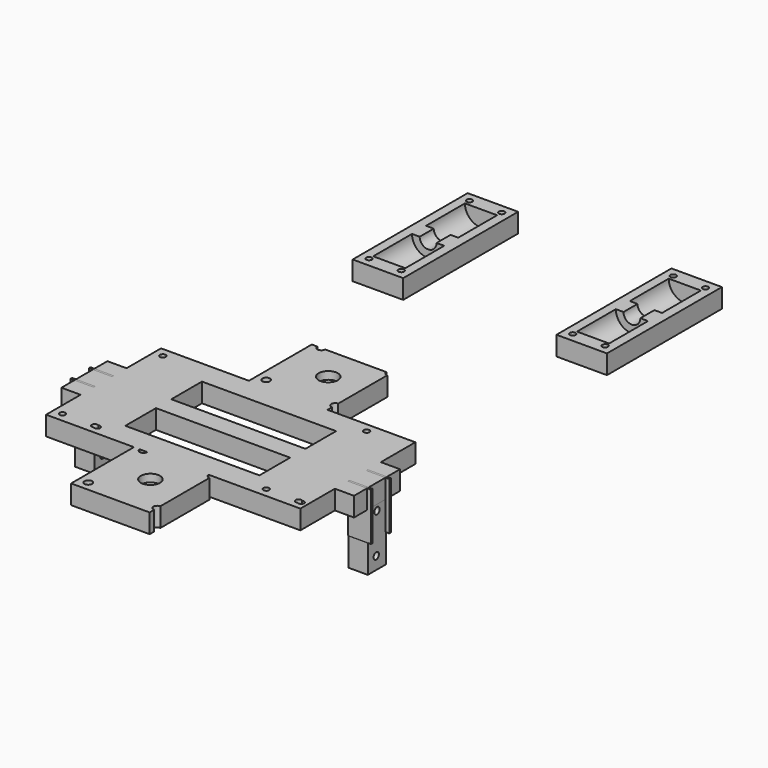
from build123d import *

# Parameters (mm, degrees)
CYLINDER013_R           = 1.5
CYLINDER013_DEPTH       = 10
CYLINDER012_R           = 1.5
CYLINDER012_DEPTH       = 10
CYLINDER011_R           = 1.5
CYLINDER011_DEPTH       = 10
CYLINDER010_R           = 1.5
CYLINDER010_DEPTH       = 10
CYLINDER009_R           = 8.4
CYLINDER009_DEPTH       = 25.35
CYLINDER009_ROLL_ANGLE  = 90
CYLINDER008_R           = 4.4
CYLINDER008_DEPTH       = 9.5
CYLINDER008_ROLL_ANGLE  = 90
CYLINDER007_R           = 8.4
CYLINDER007_DEPTH       = 25.35
CYLINDER007_ROLL_ANGLE  = 90
BOX010_W                = 26.35
BOX010_H                = 75
BOX010_DEPTH            = 10
CUT017_PLACEMENT_ANGLE  = 180
ARRAY001_X_COUNT        = 2
ARRAY001_X_PITCH        = 106.35
BOX012_W                = 36
BOX012_H                = 36
BOX012_DEPTH            = 6
CYLINDER018_R           = 5
CYLINDER018_DEPTH       = 10
CYLINDER017_R           = 2
CYLINDER017_DEPTH       = 10
CYLINDER016_R           = 2
CYLINDER016_DEPTH       = 10
CYLINDER014_R           = 2
CYLINDER014_DEPTH       = 10
CYLINDER015_R           = 2
CYLINDER015_DEPTH       = 10
BOX011_W                = 41
BOX011_H                = 41
BOX011_DEPTH            = 10
ARRAY002_Y_COUNT        = 2
ARRAY002_Y_PITCH        = 116
BOX007_W                = 10
BOX007_H                = 30
BOX007_DEPTH            = 10
BOX006_W                = 10
BOX006_H                = 30
BOX006_DEPTH            = 10
CYLINDER001_R           = 1.5
CYLINDER001_DEPTH       = 10
CYLINDER006_R           = 4.4
CYLINDER006_DEPTH       = 9.5
CYLINDER006_ROLL_ANGLE  = 90
CYLINDER005_R           = 8.4
CYLINDER005_DEPTH       = 25.35
CYLINDER005_ROLL_ANGLE  = 90
CYLINDER004_R           = 8.4
CYLINDER004_DEPTH       = 25.35
CYLINDER004_ROLL_ANGLE  = 90
CYLINDER003_R           = 1.5
CYLINDER003_DEPTH       = 10
CYLINDER002_R           = 1.5
CYLINDER002_DEPTH       = 10
CYLINDER_R              = 1.5
CYLINDER_DEPTH          = 10
BOX_W                   = 26.35
BOX_H                   = 75
BOX_DEPTH               = 10
ARRAY_X_COUNT           = 2
ARRAY_X_PITCH           = 106.35
BOX003_W                = 70
BOX003_H                = 20
BOX003_DEPTH            = 10
BOX002_W                = 70
BOX002_H                = 20
BOX002_DEPTH            = 10
BOX001_W                = 80
BOX001_H                = 75
BOX001_DEPTH            = 10
BOX018_W                = 12
BOX018_H                = 1
BOX018_DEPTH            = 25
BOX017_W                = 12
BOX017_H                = 1
BOX017_DEPTH            = 25
BOX014_W                = 12
BOX014_H                = 1
BOX014_DEPTH            = 25
CYLINDER019_R           = 1.75
CYLINDER019_DEPTH       = 10
CYLINDER019_PITCH_ANGLE = 90
CYLINDER020_R           = 1.75
CYLINDER020_DEPTH       = 10
CYLINDER020_PITCH_ANGLE = 90
BOX016_W                = 10
BOX016_H                = 12
BOX016_DEPTH            = 30
ARRAY003_X_COUNT        = 2
ARRAY003_X_PITCH        = 142.7
BOX015_W                = 12
BOX015_H                = 1
BOX015_DEPTH            = 25


with BuildPart() as cilindro013:
    # Cylinder013 → Cylinder013 (new body)
    with BuildSketch(Plane(origin=(21.6, 70.25, 0), x_dir=(1, 0, 0), z_dir=(0, 0, 1))):
        Circle(CYLINDER013_R)
    extrude(amount=CYLINDER013_DEPTH)


with BuildPart() as cilindro012:
    # Cylinder012 → Cylinder012 (new body)
    with BuildSketch(Plane(origin=(4.75, 70.25, 0), x_dir=(1, 0, 0), z_dir=(0, 0, 1))):
        Circle(CYLINDER012_R)
    extrude(amount=CYLINDER012_DEPTH)


with BuildPart() as cilindro011:
    # Cylinder011 → Cylinder011 (new body)
    with BuildSketch(Plane(origin=(4.75, 4.75, 0), x_dir=(1, 0, 0), z_dir=(0, 0, 1))):
        Circle(CYLINDER011_R)
    extrude(amount=CYLINDER011_DEPTH)


with BuildPart() as cilindro010:
    # Cylinder010 → Cylinder010 (new body)
    with BuildSketch(Plane(origin=(21.6, 4.75, 0), x_dir=(1, 0, 0), z_dir=(0, 0, 1))):
        Circle(CYLINDER010_R)
    extrude(amount=CYLINDER010_DEPTH)


with BuildPart() as cilindro009:
    # Cylinder009 → Cylinder009 (new body)
    with BuildSketch(Plane.XY):
        Circle(CYLINDER009_R)
    extrude(amount=CYLINDER009_DEPTH)


with BuildPart() as cilindro009_1:
    # Cylinder009 roll: moved
    add(cilindro009.part.rotate(Axis((0, 0, 0), (1, 0, 0)), CYLINDER009_ROLL_ANGLE))


with BuildPart() as cilindro009_2:
    # Cylinder009 placement: moved
    add(cilindro009_1.part.moved(Location((13.175, 32.75, 0))))


with BuildPart() as cilindro008:
    # Cylinder008 → Cylinder008 (new body)
    with BuildSketch(Plane.XY):
        Circle(CYLINDER008_R)
    extrude(amount=CYLINDER008_DEPTH)


with BuildPart() as cilindro008_1:
    # Cylinder008 roll: moved
    add(cilindro008.part.rotate(Axis((0, 0, 0), (1, 0, 0)), CYLINDER008_ROLL_ANGLE))


with BuildPart() as cilindro008_2:
    # Cylinder008 placement: moved
    add(cilindro008_1.part.moved(Location((13.175, 42.25, 0))))


with BuildPart() as cilindro007:
    # Cylinder007 → Cylinder007 (new body)
    with BuildSketch(Plane.XY):
        Circle(CYLINDER007_R)
    extrude(amount=CYLINDER007_DEPTH)


with BuildPart() as cilindro007_1:
    # Cylinder007 roll: moved
    add(cilindro007.part.rotate(Axis((0, 0, 0), (1, 0, 0)), CYLINDER007_ROLL_ANGLE))


with BuildPart() as cilindro007_2:
    # Cylinder007 placement: moved
    add(cilindro007_1.part.moved(Location((13.175, 67.25, 0))))


with BuildPart() as obj1:
    # Box010 → Box010 (new body)
    with BuildSketch(Plane.XY):
        with Locations((13.175, 37.5)):
            Rectangle(BOX010_W, BOX010_H)
    extrude(amount=BOX010_DEPTH)

    # Cut011: cut Cilindro007
    add(cilindro007_2.part, mode=Mode.SUBTRACT)

    # Cut012: cut Cilindro008
    add(cilindro008_2.part, mode=Mode.SUBTRACT)

    # Cut013: cut Cilindro009
    add(cilindro009_2.part, mode=Mode.SUBTRACT)

    # Cut014: cut Cilindro010
    add(cilindro010.part, mode=Mode.SUBTRACT)

    # Cut015: cut Cilindro011
    add(cilindro011.part, mode=Mode.SUBTRACT)

    # Cut016: cut Cilindro012
    add(cilindro012.part, mode=Mode.SUBTRACT)

    # Cut017: cut Cilindro013
    add(cilindro013.part, mode=Mode.SUBTRACT)


with BuildPart() as obj1_1:
    # Cut017 placement: moved
    add(obj1.part.rotate(Axis((0, 0, 0), (0, 1, 0)), CUT017_PLACEMENT_ANGLE))

    # Array001 X: obj1_2


with BuildPart() as obj1_2:
    add(obj1_1.part)
    with Locations(*[(i * ARRAY001_X_PITCH, 0, 0) for i in range(1, ARRAY001_X_COUNT)]):
        add(obj1_1.part)


with BuildPart() as obj1_3:
    # Array001 placement: moved
    add(obj1_2.part.moved(Location((26.35, 200, 0))))


with BuildPart() as cubo005:
    # Box012 → Box012 (new body)
    with BuildSketch(Plane(origin=(2, 2, 0), x_dir=(1, 0, 0), z_dir=(0, 0, 1))):
        with Locations((18, 18)):
            Rectangle(BOX012_W, BOX012_H)
    extrude(amount=BOX012_DEPTH)


with BuildPart() as cilindro018:
    # Cylinder018 → Cylinder018 (new body)
    with BuildSketch(Plane(origin=(23, 23, 0), x_dir=(1, 0, 0), z_dir=(0, 0, 1))):
        Circle(CYLINDER018_R)
    extrude(amount=CYLINDER018_DEPTH)


with BuildPart() as cilindro017:
    # Cylinder017 → Cylinder017 (new body)
    with BuildSketch(Plane(origin=(41, 41, 0), x_dir=(1, 0, 0), z_dir=(0, 0, 1))):
        Circle(CYLINDER017_R)
    extrude(amount=CYLINDER017_DEPTH)


with BuildPart() as cilindro016:
    # Cylinder016 → Cylinder016 (new body)
    with BuildSketch(Plane(origin=(41, 5, 0), x_dir=(1, 0, 0), z_dir=(0, 0, 1))):
        Circle(CYLINDER016_R)
    extrude(amount=CYLINDER016_DEPTH)


with BuildPart() as cilindro014:
    # Cylinder014 → Cylinder014 (new body)
    with BuildSketch(Plane(origin=(5, 5, 0), x_dir=(1, 0, 0), z_dir=(0, 0, 1))):
        Circle(CYLINDER014_R)
    extrude(amount=CYLINDER014_DEPTH)


with BuildPart() as cilindro015:
    # Cylinder015 → Cylinder015 (new body)
    with BuildSketch(Plane(origin=(5, 41, 0), x_dir=(1, 0, 0), z_dir=(0, 0, 1))):
        Circle(CYLINDER015_R)
    extrude(amount=CYLINDER015_DEPTH)


with BuildPart() as array002:
    # Box011 → Box011 (new body)
    with BuildSketch(Plane.XY):
        with Locations((20.5, 20.5)):
            Rectangle(BOX011_W, BOX011_H)
    extrude(amount=BOX011_DEPTH)

    # Cut018: cut Cilindro015
    add(cilindro015.part, mode=Mode.SUBTRACT)

    # Cut019: cut Cilindro014
    add(cilindro014.part, mode=Mode.SUBTRACT)

    # Cut020: cut Cilindro016
    add(cilindro016.part, mode=Mode.SUBTRACT)

    # Cut021: cut Cilindro017
    add(cilindro017.part, mode=Mode.SUBTRACT)

    # Cut022: cut Cilindro018
    add(cilindro018.part, mode=Mode.SUBTRACT)

    # Cut023: cut Cubo005
    add(cubo005.part, mode=Mode.SUBTRACT)


with BuildPart() as array002_1:
    # Cut023 placement: moved
    add(array002.part.moved(Location((43.35, -46, 0))))

    # Array002 Y: Array002 ×2


with BuildPart() as array002_2:
    add(array002_1.part)
    with Locations(*[(0, i * ARRAY002_Y_PITCH, 0) for i in range(1, ARRAY002_Y_COUNT)]):
        add(array002_1.part)


with BuildPart() as array002_3:
    # Array002 placement: moved
    add(array002_2.part.moved(Location((2.5, 5, 0))))


with BuildPart() as obj2:
    # Box007 → Box007 (new body)
    with BuildSketch(Plane(origin=(132.7, 22.5, 0), x_dir=(1, 0, 0), z_dir=(0, 0, 1))):
        with Locations((5, 15)):
            Rectangle(BOX007_W, BOX007_H)
    extrude(amount=BOX007_DEPTH)


with BuildPart() as obj3:
    # Box006 → Box006 (new body)
    with BuildSketch(Plane(origin=(-10, 22.5, 0), x_dir=(1, 0, 0), z_dir=(0, 0, 1))):
        with Locations((5, 15)):
            Rectangle(BOX006_W, BOX006_H)
    extrude(amount=BOX006_DEPTH)


with BuildPart() as cilindro001:
    # Cylinder001 → Cylinder001 (new body)
    with BuildSketch(Plane(origin=(21.6, 4.75, 0), x_dir=(1, 0, 0), z_dir=(0, 0, 1))):
        Circle(CYLINDER001_R)
    extrude(amount=CYLINDER001_DEPTH)


with BuildPart() as cilindro006:
    # Cylinder006 → Cylinder006 (new body)
    with BuildSketch(Plane.XY):
        Circle(CYLINDER006_R)
    extrude(amount=CYLINDER006_DEPTH)


with BuildPart() as cilindro006_1:
    # Cylinder006 roll: moved
    add(cilindro006.part.rotate(Axis((0, 0, 0), (1, 0, 0)), CYLINDER006_ROLL_ANGLE))


with BuildPart() as cilindro006_2:
    # Cylinder006 placement: moved
    add(cilindro006_1.part.moved(Location((13.175, 39.5, 0))))


with BuildPart() as cilindro005:
    # Cylinder005 → Cylinder005 (new body)
    with BuildSketch(Plane.XY):
        Circle(CYLINDER005_R)
    extrude(amount=CYLINDER005_DEPTH)


with BuildPart() as cilindro005_1:
    # Cylinder005 roll: moved
    add(cilindro005.part.rotate(Axis((0, 0, 0), (1, 0, 0)), CYLINDER005_ROLL_ANGLE))


with BuildPart() as cilindro005_2:
    # Cylinder005 placement: moved
    add(cilindro005_1.part.moved(Location((13.175, 64.5, 0))))


with BuildPart() as fusion001:
    # Cylinder004 → Cylinder004 (new body)
    with BuildSketch(Plane.XY):
        Circle(CYLINDER004_R)
    extrude(amount=CYLINDER004_DEPTH)


with BuildPart() as fusion001_1:
    # Cylinder004 roll: moved
    add(fusion001.part.rotate(Axis((0, 0, 0), (1, 0, 0)), CYLINDER004_ROLL_ANGLE))


with BuildPart() as fusion001_2:
    # Cylinder004 placement: moved
    add(fusion001_1.part.moved(Location((13.175, 30, 0))))

    # Fusion: union Cilindro005
    add(cilindro005_2.part)

    # Fusion001: union Cilindro006
    add(cilindro006_2.part)


with BuildPart() as fusion001_3:
    # Fusion001 placement: moved
    add(fusion001_2.part.moved(Location((0, 2.75, 0))))


with BuildPart() as cilindro003:
    # Cylinder003 → Cylinder003 (new body)
    with BuildSketch(Plane(origin=(23.142473, 4.562622, 6e-06), x_dir=(1, 0, 0), z_dir=(0, 0, 1))):
        Circle(CYLINDER003_R)
    extrude(amount=CYLINDER003_DEPTH)


with BuildPart() as cilindro002:
    # Cylinder002 → Cylinder002 (new body)
    with BuildSketch(Plane(origin=(4.75, 70.25, 0), x_dir=(1, 0, 0), z_dir=(0, 0, 1))):
        Circle(CYLINDER002_R)
    extrude(amount=CYLINDER002_DEPTH)


with BuildPart() as cilindro:
    # Cylinder → Cylinder (new body)
    with BuildSketch(Plane(origin=(4.75, 4.75, 0), x_dir=(1, 0, 0), z_dir=(0, 0, 1))):
        Circle(CYLINDER_R)
    extrude(amount=CYLINDER_DEPTH)


with BuildPart() as cut002:
    # Box → Box (new body)
    with BuildSketch(Plane.XY):
        with Locations((13.175, 37.5)):
            Rectangle(BOX_W, BOX_H)
    extrude(amount=BOX_DEPTH)

    # Cut: cut Cilindro
    add(cilindro.part, mode=Mode.SUBTRACT)

    # Cut001: cut Cilindro002
    add(cilindro002.part, mode=Mode.SUBTRACT)

    # Cut002: cut Cilindro003
    add(cilindro003.part, mode=Mode.SUBTRACT)


with BuildPart() as cut003:
    # Cut003 base: copy of Cut002
    add(cut002.part)

    # Cut003: cut Cilindro001
    add(cilindro001.part, mode=Mode.SUBTRACT)


with BuildPart() as obj4:
    # Cut004 base: copy of Cut002
    add(cut002.part)

    # Cut004: cut Cilindro001
    add(cilindro001.part, mode=Mode.SUBTRACT)

    # Fusion002: union Cut003
    add(cut003.part)

    # Cut005: cut Fusion001
    add(fusion001_3.part, mode=Mode.SUBTRACT)

    # Cut006: cut Cilindro001
    add(cilindro001.part, mode=Mode.SUBTRACT)

    # Array X: obj4 ×2


with BuildPart() as obj4_1:
    add(obj4.part)
    with Locations(*[(i * ARRAY_X_PITCH, 0, 0) for i in range(1, ARRAY_X_COUNT)]):
        add(obj4.part)

    # Fusion005: union obj3
    add(obj3.part)

    # Fusion006: union obj2
    add(obj2.part)


with BuildPart() as obj5:
    # Box003 → Box003 (new body)
    with BuildSketch(Plane(origin=(31.35, 42.5, 0), x_dir=(1, 0, 0), z_dir=(0, 0, 1))):
        with Locations((35, 10)):
            Rectangle(BOX003_W, BOX003_H)
    extrude(amount=BOX003_DEPTH)


with BuildPart() as obj6:
    # Box002 → Box002 (new body)
    with BuildSketch(Plane(origin=(31.35, 12.5, 0), x_dir=(1, 0, 0), z_dir=(0, 0, 1))):
        with Locations((35, 10)):
            Rectangle(BOX002_W, BOX002_H)
    extrude(amount=BOX002_DEPTH)


with BuildPart() as fusion008:
    # Box001 → Box001 (new body)
    with BuildSketch(Plane(origin=(26.35, 0, 0), x_dir=(1, 0, 0), z_dir=(0, 0, 1))):
        with Locations((40, 37.5)):
            Rectangle(BOX001_W, BOX001_H)
    extrude(amount=BOX001_DEPTH)

    # Cut007: cut obj6
    add(obj6.part, mode=Mode.SUBTRACT)

    # Cut008: cut obj5
    add(obj5.part, mode=Mode.SUBTRACT)

    # Fusion007: union obj4
    add(obj4_1.part)

    # Fusion008: union Array002
    add(array002_3.part)


with BuildPart() as cubo011:
    # Box018 → Box018 (new body)
    with BuildSketch(Plane(origin=(-12, 43, -15), x_dir=(1, 0, 0), z_dir=(0, 0, 1))):
        with Locations((6, 0.5)):
            Rectangle(BOX018_W, BOX018_H)
    extrude(amount=BOX018_DEPTH)


with BuildPart() as cubo010:
    # Box017 → Box017 (new body)
    with BuildSketch(Plane(origin=(-12, 31, -15), x_dir=(1, 0, 0), z_dir=(0, 0, 1))):
        with Locations((6, 0.5)):
            Rectangle(BOX017_W, BOX017_H)
    extrude(amount=BOX017_DEPTH)


with BuildPart() as cubo007:
    # Box014 → Box014 (new body)
    with BuildSketch(Plane(origin=(132.7, 31, -15), x_dir=(1, 0, 0), z_dir=(0, 0, 1))):
        with Locations((6, 0.5)):
            Rectangle(BOX014_W, BOX014_H)
    extrude(amount=BOX014_DEPTH)


with BuildPart() as cilindro019:
    # Cylinder019 → Cylinder019 (new body)
    with BuildSketch(Plane.XY):
        Circle(CYLINDER019_R)
    extrude(amount=CYLINDER019_DEPTH)


with BuildPart() as cilindro019_1:
    # Cylinder019 pitch: moved
    add(cilindro019.part.rotate(Axis((0, 0, 0), (0, 1, 0)), CYLINDER019_PITCH_ANGLE))


with BuildPart() as cilindro019_2:
    # Cylinder019 placement: moved
    add(cilindro019_1.part.moved(Location((-10, 37.5, -3))))


with BuildPart() as cilindro020:
    # Cylinder020 → Cylinder020 (new body)
    with BuildSketch(Plane.XY):
        Circle(CYLINDER020_R)
    extrude(amount=CYLINDER020_DEPTH)


with BuildPart() as cilindro020_1:
    # Cylinder020 pitch: moved
    add(cilindro020.part.rotate(Axis((0, 0, 0), (0, 1, 0)), CYLINDER020_PITCH_ANGLE))


with BuildPart() as cilindro020_2:
    # Cylinder020 placement: moved
    add(cilindro020_1.part.moved(Location((-10, 37, -23.5))))


with BuildPart() as array003:
    # Box016 → Box016 (new body)
    with BuildSketch(Plane(origin=(-10, 31.5, -30), x_dir=(1, 0, 0), z_dir=(0, 0, 1))):
        with Locations((5, 6)):
            Rectangle(BOX016_W, BOX016_H)
    extrude(amount=BOX016_DEPTH)

    # Cut024: cut Cilindro020
    add(cilindro020_2.part, mode=Mode.SUBTRACT)

    # Cut025: cut Cilindro019
    add(cilindro019_2.part, mode=Mode.SUBTRACT)

    # Array003 X: Array003 ×2


with BuildPart() as array003_1:
    add(array003.part)
    with Locations(*[(i * ARRAY003_X_PITCH, 0, 0) for i in range(1, ARRAY003_X_COUNT)]):
        add(array003.part)


with BuildPart() as fusion010:
    # Box015 → Box015 (new body)
    with BuildSketch(Plane(origin=(132.7, 43, -15), x_dir=(1, 0, 0), z_dir=(0, 0, 1))):
        with Locations((6, 0.5)):
            Rectangle(BOX015_W, BOX015_H)
    extrude(amount=BOX015_DEPTH)

    # Fusion009: union Cubo007, Array003
    add(cubo007.part)
    add(array003_1.part)

    # Fusion010: union Cubo011, Cubo010
    add(cubo011.part)
    add(cubo010.part)


solid = Compound([obj1_3.part, fusion008.part, fusion010.part])
